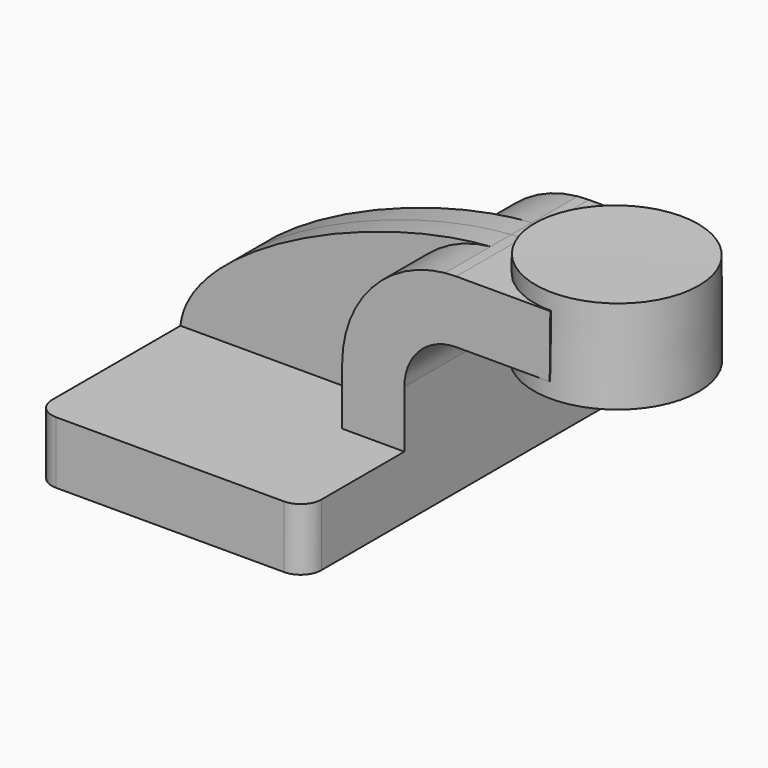
from build123d import *

# Parameters (mm, degrees)
F1_DEPTH = 63.5
F2_DEPTH = 25.4
F3_DEPTH = 7.9375
F5_R     = 6.35


with BuildPart() as f1:
    # F0 (on Front) → F1 (new body, symmetric)
    with BuildSketch(Plane.XZ):
        Polygon((-41.275, 9.525), (-41.275, -9.525), (41.275, -9.525), (41.275, 9.525), (22.225, 9.525), align=None)
    extrude(amount=F1_DEPTH, both=True)

    # F0 (on Front) → F2 (join, symmetric)
    with BuildSketch(Plane.XZ):
        with BuildLine():
            Line((22.225, 9.525), (41.275, 9.525))
            Line((41.275, 9.525), (41.275, 27.0002))
            ThreePointArc((41.275, 27.0002), (45.9246798487, 38.2255201513), (57.15, 42.8752))
            Line((57.15, 42.8752), (60.325, 42.8752))
            Line((60.325, 42.8752), (60.325, 61.9252))
            Line((60.325, 61.9252), (57.15, 61.9252))
            add(Edge.make_bspline(
                [(53.7127996904, 61.7556496307), (54.8765985811, 61.8347933422), (56.0230447647, 61.8915575095), (57.15, 61.9252)],
                knots=[108.134720886, 108.134720886, 108.134720886, 108.134720886, 111.5045361635, 111.5045361635, 111.5045361635, 111.5045361635], degree=3))
            ThreePointArc((53.7127996904, 61.7556496307), (31.2675750188, 50.4492021556), (22.225, 27.0002))
            Line((22.225, 27.0002), (22.225, 9.525))
        make_face()
        Polygon((85.9637896686, 61.9252), (60.325, 61.9252), (60.325, 42.8752), (85.772859763, 42.8752), align=None)
    extrude(amount=F2_DEPTH, both=True)

    # F0 (on Front) → F3 (join, symmetric)
    with BuildSketch(Plane.XZ):
        with BuildLine():
            add(Edge.make_bspline(
                [(-41.275, 9.525), (-38.8463697033, 33.6317201316), (16.3674089648, 59.2159901983), (53.7127996904, 61.7556496307)],
                knots=[0, 0, 0, 0, 108.134720886, 108.134720886, 108.134720886, 108.134720886], degree=3))
            Line((-41.275, 9.525), (22.225, 9.525))
            Line((22.225, 9.525), (22.225, 27.0002))
            ThreePointArc((22.225, 27.0002), (31.2675750188, 50.4492021556), (53.7127996904, 61.7556496307))
        make_face()
    extrude(amount=F3_DEPTH, both=True)

    # F5
    f5_edges = [f1.edges().sort_by_distance(p)[0] for p in [
        (-41.275, -63.5, 0),
        (41.275, -63.5, 0),
        (41.275, 63.5, 0),
        (-41.275, 63.5, 0),
    ]]
    fillet(f5_edges, radius=F5_R)


with BuildPart() as f4:
    # F0 (on Front) → F4 (revolve)
    with BuildSketch(Plane.XZ):
        Polygon((86.0113948584, 66.675), (85.9637896686, 61.9252), (85.772859763, 42.8752), (85.725, 38.1), (111.125, 38.1), (111.125, 66.675), align=None)
    revolve(axis=Axis((85.8681974292, 0, 52.3875), (0.0100220639, 0, 0.9999497779)))


solid = Compound([f1.part, f4.part])
